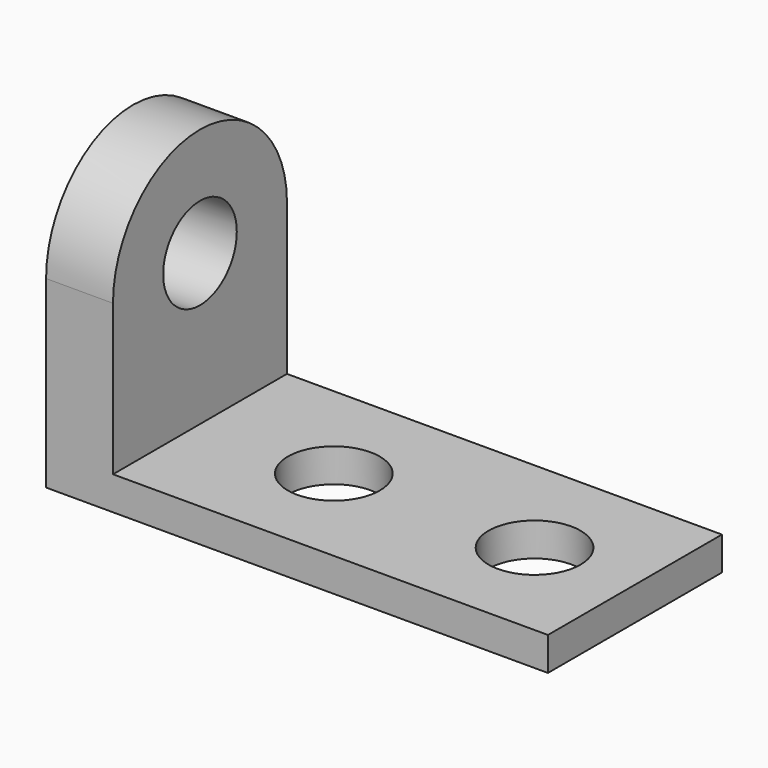
from build123d import *

# Parameters (mm, degrees)
F1_DEPTH = 82.55
F2_R     = 17.4625
F3_DEPTH = 25.401
F4_R     = 17.4625
F5_DEPTH = 12.701


with BuildPart() as f1:
    # F0 (on Front) → F1 (new body)
    with BuildSketch(Plane.XZ):
        Polygon((0, 127), (0, 0), (190.5, 0), (190.5, 12.7), (25.4, 12.7), (25.4, 127), align=None)
    extrude(amount=F1_DEPTH)

    # F2 (on face) → F3 (cut, through all)
    with BuildSketch(Plane.YZ.offset(25.4)):
        with Locations((-41.275, 69.85)):
            Circle(F2_R)
        with BuildLine():
            ThreePointArc((-82.55, 69.85), (-41.275, 111.125), (0, 69.85))
            Line((0, 69.85), (0, 127))
            Line((0, 127), (-82.55, 127))
            Line((-82.55, 127), (-82.55, 69.85))
        make_face()
    extrude(amount=-F3_DEPTH, mode=Mode.SUBTRACT)

    # F4 (on face) → F5 (cut, through all)
    with BuildSketch(Plane.XY.offset(12.7)):
        with Locations((152.4, -41.275)):
            Circle(F4_R)
        with Locations((76.2, -41.275)):
            Circle(F4_R)
        with Locations((76.2, -41.275)):
            Circle(F4_R)
    extrude(amount=-F5_DEPTH, mode=Mode.SUBTRACT)


solid = f1.part
